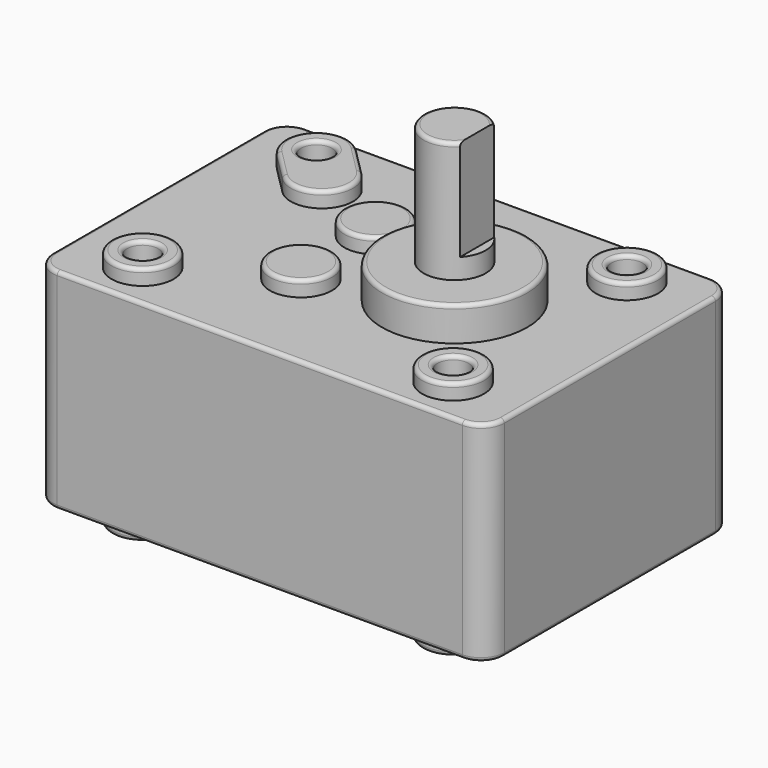
from build123d import *

# Parameters (mm, degrees)
PAD_DEPTH         = 27
SKETCH001_R       = 4
PAD001_DEPTH      = 2
PAD001_DEPTH_BACK = 29
SKETCH002_R       = 2
POCKET_DEPTH      = 29.001
POCKET_DEPTH_BACK = 2.001
SKETCH003_R       = 9.35
PAD002_DEPTH      = 4.4
PAD002_DEPTH_BACK = 31.4
SKETCH004_R       = 4
PAD003_DEPTH      = 20
SKETCH005_W       = 8
SKETCH005_H       = 8
POCKET001_DEPTH   = 13
FILLET002_R       = 0.5


with BuildPart() as part:
    # Sketch → Pad (new body)
    with BuildSketch(Plane.XY):
        with BuildLine():
            Line((-35.2, 20), (17, 20))
            ThreePointArc((20, 17), (19.12132, 19.12132), (17, 20))
            Line((20, 17), (20, -17))
            ThreePointArc((17, -20), (19.12132, -19.12132), (20, -17))
            Line((17, -20), (-35.2, -20))
            ThreePointArc((-38.2, -17), (-37.32132, -19.12132), (-35.2, -20))
            Line((-38.2, -17), (-38.2, 17))
            ThreePointArc((-35.2, 20), (-37.32132, 19.12132), (-38.2, 17))
        make_face()
    extrude(amount=-PAD_DEPTH)

    # Sketch001 → Pad001 (join, two sides)
    with BuildSketch(Plane.XY) as pad001_sk:
        with Locations((11, 14)):
            Circle(SKETCH001_R)
        with Locations((11, -14)):
            Circle(SKETCH001_R)
        with Locations((-29, -14)):
            Circle(SKETCH001_R)
        with Locations((-15, 6)):
            Circle(SKETCH001_R)
        with Locations((-15, -6)):
            Circle(SKETCH001_R)
        with BuildLine():
            ThreePointArc((-26.171573, 16.828427), (-31.828427, 16.828427), (-31.828427, 11.171573))
            Line((-31.828427, 11.171573), (-28.292893, 7.636039))
            ThreePointArc((-28.292893, 7.636039), (-22.636039, 7.636039), (-22.636039, 13.292893))
            Line((-22.636039, 13.292893), (-26.171573, 16.828427))
        make_face()
    extrude(amount=PAD001_DEPTH)
    extrude(pad001_sk.sketch, amount=-PAD001_DEPTH_BACK)

    # Sketch002 → Pocket (cut, two sides)
    with BuildSketch(Plane.XY) as pocket_sk:
        with Locations((-29, 14)):
            Circle(SKETCH002_R)
        with Locations((11, 14)):
            Circle(SKETCH002_R)
        with Locations((11, -14)):
            Circle(SKETCH002_R)
        with Locations((-29, -14)):
            Circle(SKETCH002_R)
    extrude(amount=-POCKET_DEPTH, mode=Mode.SUBTRACT)
    extrude(pocket_sk.sketch, amount=POCKET_DEPTH_BACK, mode=Mode.SUBTRACT)

    # Sketch003 → Pad002 (join, two sides)
    with BuildSketch(Plane.XY) as pad002_sk:
        Circle(SKETCH003_R)
    extrude(amount=PAD002_DEPTH)
    extrude(pad002_sk.sketch, amount=-PAD002_DEPTH_BACK)

    # Sketch004 → Pad003 (join)
    with BuildSketch(Plane.XY):
        Circle(SKETCH004_R)
    extrude(amount=PAD003_DEPTH)

    # Sketch005 (on Face50 of Pad003) → Pocket001 (cut)
    with BuildSketch(Plane.XY.offset(20)):
        with Locations((6.9, 0)):
            Rectangle(SKETCH005_W, SKETCH005_H)
    extrude(amount=-POCKET001_DEPTH, mode=Mode.SUBTRACT)

    # Fillet002
    fillet002_edges = [part.edges().sort_by_distance(p)[0] for p in [
        (-9.1, -20, 0),
        (-22.636039, 7.636039, 2),
        (-31.828427, 16.828427, -29),
        (7, -14, -29),
        (-19, 6, -29),
        (-9.35, 0, -31.4),
        (-9.1, 20, -27),
        (-31, 14, -29),
        (9, 14, -29),
        (7, 14, -29),
        (-19, -6, -29),
        (9, -14, -29),
        (-33, -14, -29),
        (-31, -14, -29),
        (7, -14, 2),
        (9, -14, 2),
        (-4, 0, 20),
        (-9.35, 0, 4.4),
        (7, 14, 2),
        (9, 14, 2),
        (-19, 6, 2),
        (-19, -6, 2),
        (-31, 14, 2),
        (-33, -14, 2),
        (-31, -14, 2),
    ]]
    fillet(fillet002_edges, radius=FILLET002_R)


solid = part.part
